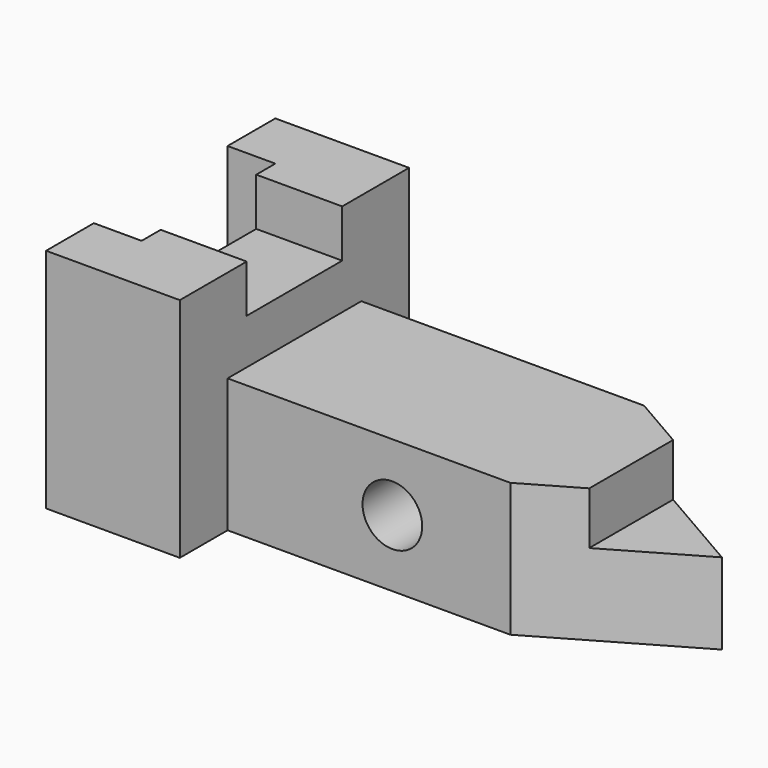
from build123d import *

# Parameters (mm, degrees)
F0_W      = 119.38
F0_H      = 60.96
F1_DEPTH  = 24.13
F3_DEPTH  = 90.932
F4_W      = 25.4
F4_H      = 10.16
F5_DEPTH  = 45.3898
F6_W      = 10.16
F6_H      = 35.56
F7_DEPTH  = 53.4162
F9_DEPTH  = 34.798
F11_DEPTH = 11.176
F12_R     = 6.35
F13_DEPTH = 58.166


with BuildPart() as f1:
    # F0 (on Top) → F1 (new body, symmetric)
    with BuildSketch(Plane.XY):
        Rectangle(F0_W, F0_H)
    extrude(amount=F1_DEPTH, both=True)

    # F2 (on face) → F3 (cut)
    with BuildSketch(Plane.YZ.offset(59.69)):
        Polygon((-30.48, -24.13), (-17.78, -24.13), (-17.78, 4.318), (17.78, 4.318), (17.78, -24.13), (30.48, -24.13), (30.48, 24.13), (-30.48, 24.13), align=None)
    extrude(amount=-F3_DEPTH, mode=Mode.SUBTRACT)

    # F4 (on face) → F5 (cut)
    with BuildSketch(Plane.YZ.offset(-31.242)):
        with Locations((0, 19.05)):
            Rectangle(F4_W, F4_H)
    extrude(amount=-F5_DEPTH, mode=Mode.SUBTRACT)

    # F6 (on face) → F7 (cut)
    with BuildSketch(Plane.XY.offset(24.13)):
        with Locations((-54.61, 0)):
            Rectangle(F6_W, F6_H)
        with Locations((-54.61, 0)):
            Rectangle(F6_W, F6_H)
    extrude(amount=-F7_DEPTH, mode=Mode.SUBTRACT)

    # F8 (on face) → F9 (cut)
    with BuildSketch(Plane.XY.offset(4.318)):
        Polygon((28.894137, 17.78), (59.69, 0), (59.69, 17.78), align=None)
        Polygon((59.69, -17.78), (59.69, 0), (28.894137, -17.78), align=None)
    extrude(amount=-F9_DEPTH, mode=Mode.SUBTRACT)

    # F10 (on face) → F11 (cut)
    with BuildSketch(Plane.XY.offset(4.318)):
        Polygon((40.386, 11.14517), (40.386, -11.14517), (59.69, 0), align=None)
    extrude(amount=-F11_DEPTH, mode=Mode.SUBTRACT)

    # F12 (on face) → F13 (cut)
    with BuildSketch(Plane.XZ.offset(17.78)):
        with Locations((3.81, -9.906)):
            Circle(F12_R)
    extrude(amount=-F13_DEPTH, mode=Mode.SUBTRACT)


solid = f1.part
